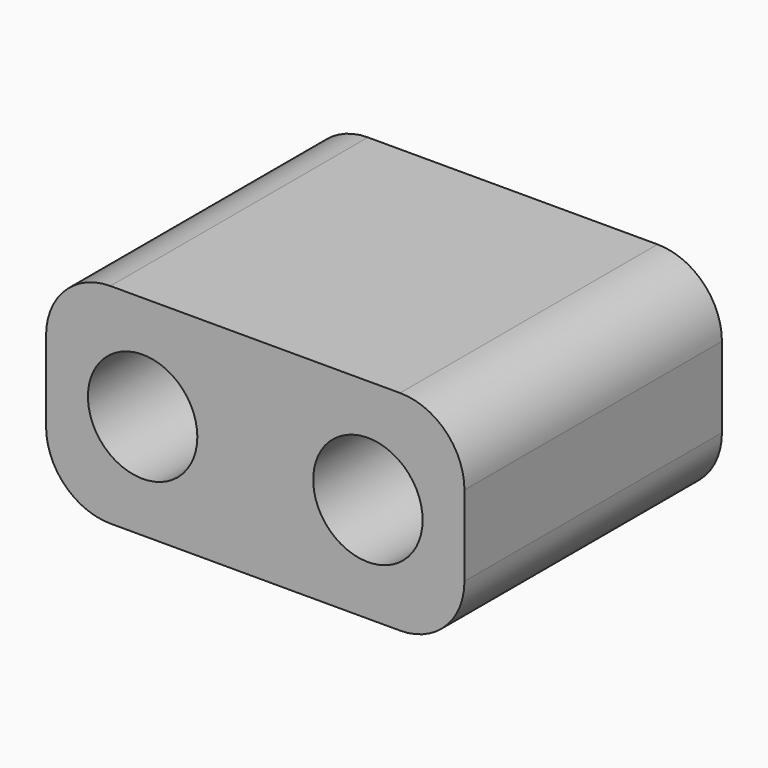
from build123d import *

# Parameters (mm, degrees)
F0_R     = 0.85
F1_DEPTH = 5


with BuildPart() as f1:
    # F0 (on Front) → F1 (new body)
    with BuildSketch(Plane.XZ):
        with BuildLine():
            Line((-2.25, 0), (0, 0))
            Line((0, 0), (2.25, 0))
            ThreePointArc((2.25, 0), (2.957107, 0.292893), (3.25, 1))
            Line((3.25, 1), (3.25, 2.25))
            ThreePointArc((3.25, 2.25), (2.957107, 2.957107), (2.25, 3.25))
            Line((2.25, 3.25), (0, 3.25))
            Line((0, 3.25), (-2.25, 3.25))
            ThreePointArc((-2.25, 3.25), (-2.957107, 2.957107), (-3.25, 2.25))
            Line((-3.25, 2.25), (-3.25, 1))
            ThreePointArc((-3.25, 1), (-2.957107, 0.292893), (-2.25, 0))
        make_face()
        with Locations((-1.75, 1.625)):
            Circle(F0_R, mode=Mode.SUBTRACT)
        with Locations((1.75, 1.625)):
            Circle(F0_R, mode=Mode.SUBTRACT)
    extrude(amount=F1_DEPTH)


solid = f1.part
